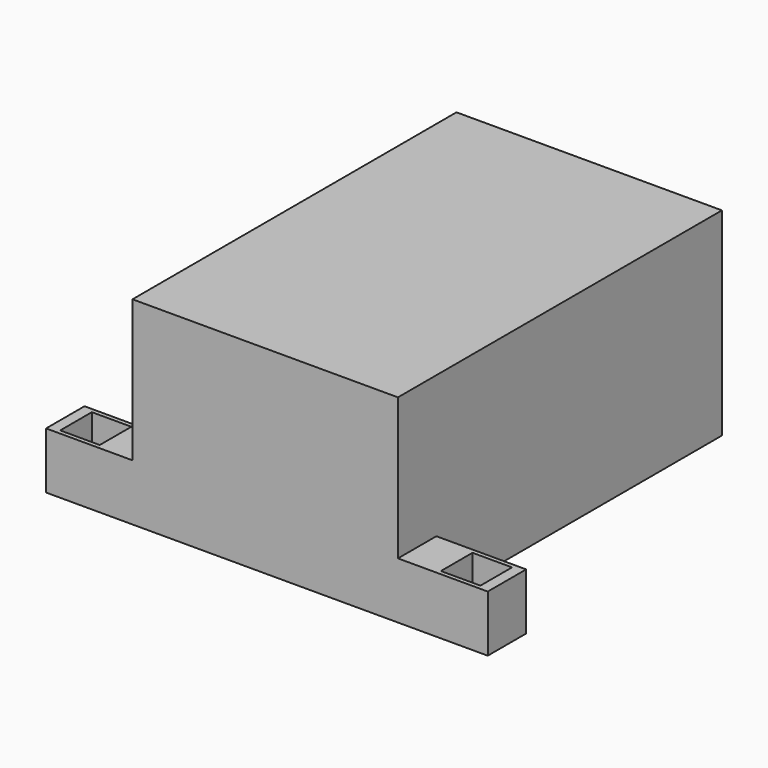
from build123d import *

# Parameters (mm, degrees)
CYLINDER009_R           = 45
CYLINDER009_DEPTH       = 1.2
BOX011_W                = 14
BOX011_H                = 14
BOX011_DEPTH            = 35
BOX008_W                = 40
BOX008_H                = 17
BOX008_DEPTH            = 20
BOX010_W                = 14
BOX010_H                = 14
BOX010_DEPTH            = 52
BOX009_W                = 40
BOX009_H                = 17
BOX009_DEPTH            = 20
PAD002_DEPTH            = 94
BODY002_PLACEMENT_ANGLE = 180
PAD001_DEPTH            = 94
BOX005_W                = 94
BOX005_H                = 1.2
BOX005_DEPTH            = 70.2
BOX002_W                = 1.2
BOX002_H                = 143.4
BOX002_DEPTH            = 70.2
BOX003_W                = 1.2
BOX003_H                = 143.4
BOX003_DEPTH            = 70.2
BOX004_W                = 94
BOX004_H                = 143.4
BOX004_DEPTH            = 1.2
BOX001_W                = 92.8
BOX001_H                = 50.6
BOX001_DEPTH            = 1.2
CYLINDER006_R           = 45
CYLINDER006_DEPTH       = 10
BOX_W                   = 92.8
BOX_H                   = 92.8
BOX_DEPTH               = 1.2
PAD_DEPTH               = 5
BODY_PLACEMENT_ANGLE    = 90
ARRAY_COUNT             = 32
CYLINDER002_R           = 3
CYLINDER002_DEPTH       = 10
CYLINDER_R              = 45
CYLINDER_DEPTH          = 1.2
CYLINDER008_R           = 3
CYLINDER008_DEPTH       = 10
ARRAY003_COUNT          = 12
CYLINDER007_R           = 3
CYLINDER007_DEPTH       = 10
ARRAY002_COUNT          = 8


with BuildPart() as cylinder009:
    # Cylinder009 → Cylinder009 (new body)
    with BuildSketch(Plane.XY):
        Circle(CYLINDER009_R)
    extrude(amount=CYLINDER009_DEPTH)


with BuildPart() as cube011:
    # Box011 → Box011 (new body)
    with BuildSketch(Plane(origin=(-73.2, -95.5, -15), x_dir=(1, 0, 0), z_dir=(0, 0, 1))):
        with Locations((7, 7)):
            Rectangle(BOX011_W, BOX011_H)
    extrude(amount=BOX011_DEPTH)


with BuildPart() as obj1:
    # Box008 → Box008 (new body)
    with BuildSketch(Plane(origin=(-77, -97, -15), x_dir=(1, 0, 0), z_dir=(0, 0, 1))):
        with Locations((20, 8.5)):
            Rectangle(BOX008_W, BOX008_H)
    extrude(amount=BOX008_DEPTH)

    # Cut004: cut Cube011
    add(cube011.part, mode=Mode.SUBTRACT)


with BuildPart() as obj1_1:
    # Cut004 placement: moved
    add(obj1.part.moved(Location((0, 0, 15))))


with BuildPart() as cube010:
    # Box010 → Box010 (new body)
    with BuildSketch(Plane(origin=(61.6, -95.5, -15), x_dir=(1, 0, 0), z_dir=(0, 0, 1))):
        with Locations((7, 7)):
            Rectangle(BOX010_W, BOX010_H)
    extrude(amount=BOX010_DEPTH)


with BuildPart() as obj2:
    # Box009 → Box009 (new body)
    with BuildSketch(Plane(origin=(39.4, -97, -15), x_dir=(1, 0, 0), z_dir=(0, 0, 1))):
        with Locations((20, 8.5)):
            Rectangle(BOX009_W, BOX009_H)
    extrude(amount=BOX009_DEPTH)

    # Cut005: cut Cube010
    add(cube010.part, mode=Mode.SUBTRACT)


with BuildPart() as obj2_1:
    # Cut005 placement: moved
    add(obj2.part.moved(Location((0, 0, 15))))


with BuildPart() as body002:
    # Sketch002 (on Face1 of CopyFusion002002) → Pad002 (new body)
    with BuildSketch(Plane.YZ.offset(47.6)):
        Polygon((0, 0), (0, 10), (-14.28148, 0), align=None)
    extrude(amount=PAD002_DEPTH)


with BuildPart() as body002_1:
    # Body002 placement: moved
    add(body002.part.moved(Location((95.2, -47.6, 70))).rotate(Axis((95.2, -47.6, 70), (0, 1, 0)), BODY002_PLACEMENT_ANGLE))


with BuildPart() as body001:
    # Sketch001 (on Face1 of CopyFusion002001) → Pad001 (new body)
    with BuildSketch(Plane.YZ.offset(47.6)):
        Polygon((0, 0), (0, 10), (-14.28148, 0), align=None)
    extrude(amount=PAD001_DEPTH)


with BuildPart() as body001_1:
    # Body001 placement: moved
    add(body001.part.moved(Location((-94, -47.6, 0))))


with BuildPart() as cube005:
    # Box005 → Box005 (new body)
    with BuildSketch(Plane(origin=(-46.4, -97, 0), x_dir=(1, 0, 0), z_dir=(0, 0, 1))):
        with Locations((47, 0.6)):
            Rectangle(BOX005_W, BOX005_H)
    extrude(amount=BOX005_DEPTH)


with BuildPart() as cube002:
    # Box002 → Box002 (new body)
    with BuildSketch(Plane(origin=(46.4, -97, 0), x_dir=(1, 0, 0), z_dir=(0, 0, 1))):
        with Locations((0.6, 71.7)):
            Rectangle(BOX002_W, BOX002_H)
    extrude(amount=BOX002_DEPTH)


with BuildPart() as cube003:
    # Box003 → Box003 (new body)
    with BuildSketch(Plane(origin=(-46.4, -97, 0), x_dir=(1, 0, 0), z_dir=(0, 0, 1))):
        with Locations((0.6, 71.7)):
            Rectangle(BOX003_W, BOX003_H)
    extrude(amount=BOX003_DEPTH)


with BuildPart() as cube004:
    # Box004 → Box004 (new body)
    with BuildSketch(Plane(origin=(-46.4, -97, 69), x_dir=(1, 0, 0), z_dir=(0, 0, 1))):
        with Locations((47, 71.7)):
            Rectangle(BOX004_W, BOX004_H)
    extrude(amount=BOX004_DEPTH)


with BuildPart() as cube001:
    # Box001 → Box001 (new body)
    with BuildSketch(Plane(origin=(-46.4, -97, 0), x_dir=(1, 0, 0), z_dir=(0, 0, 1))):
        with Locations((46.4, 25.3)):
            Rectangle(BOX001_W, BOX001_H)
    extrude(amount=BOX001_DEPTH)


with BuildPart() as cylinder006:
    # Cylinder006 → Cylinder006 (new body)
    with BuildSketch(Plane.XY):
        Circle(CYLINDER006_R)
    extrude(amount=CYLINDER006_DEPTH)


with BuildPart() as cut002:
    # Box → Box (new body)
    with BuildSketch(Plane(origin=(-46.4, -46.4, 0), x_dir=(1, 0, 0), z_dir=(0, 0, 1))):
        with Locations((46.4, 46.4)):
            Rectangle(BOX_W, BOX_H)
    extrude(amount=BOX_DEPTH)

    # Cut002: cut Cylinder006
    add(cylinder006.part, mode=Mode.SUBTRACT)


with BuildPart() as array:
    # Sketch (on Face1 of CopyCut) → Pad (new body, symmetric)
    with BuildSketch(Plane(origin=(0, 0, 0), x_dir=(1, 0, 0), z_dir=(0, 0, -1))):
        with BuildLine():
            ThreePointArc((-40, 2), (-42, 0), (-40, -2))
            Line((-40, -2), (-30, -2))
            ThreePointArc((-30, -2), (-28, 0), (-30, 2))
            Line((-40, 2), (-30, 2))
        make_face()
    extrude(amount=PAD_DEPTH, both=True)


with BuildPart() as array_1:
    # Body placement: moved
    add(array.part.rotate(Axis((0, 0, 0), (0, 0, 1)), BODY_PLACEMENT_ANGLE))

    # Array: Array ×32 about axis
    array_axis = Axis((0, 0, 0), (0, 0, 1))


with BuildPart() as array_2:
    add(array_1.part)
    for i in range(1, ARRAY_COUNT):
        add(array_1.part.rotate(array_axis, i * 360 / ARRAY_COUNT))


with BuildPart() as cylinder002:
    # Cylinder002 → Cylinder002 (new body)
    with BuildSketch(Plane.XY):
        Circle(CYLINDER002_R)
    extrude(amount=CYLINDER002_DEPTH)


with BuildPart() as cut001:
    # Cylinder → Cylinder (new body)
    with BuildSketch(Plane.XY):
        Circle(CYLINDER_R)
    extrude(amount=CYLINDER_DEPTH)

    # Cut: cut Cylinder002
    add(cylinder002.part, mode=Mode.SUBTRACT)

    # Cut001: cut Array
    add(array_2.part, mode=Mode.SUBTRACT)


with BuildPart() as cut010:
    # Fusion base: copy of Cut001
    add(cut001.part)

    # Fusion: union Cut002
    add(cut002.part)

    # Fusion001: union Cube001
    add(cube001.part)

    # Fusion002: union Cube002, Cube003, Cube004
    add(cube002.part)
    add(cube003.part)
    add(cube004.part)

    # Fusion003: union Cube005
    add(cube005.part)

    # Fusion004: union Body002, Body001
    add(body002_1.part)
    add(body001_1.part)

    # Fusion005002: union obj1, obj2
    add(obj1_1.part)
    add(obj2_1.part)

    # Cut010: cut Cylinder009
    add(cylinder009.part, mode=Mode.SUBTRACT)


with BuildPart() as array003:
    # Cylinder008 → Cylinder008 (new body)
    with BuildSketch(Plane(origin=(-20, 0, 0), x_dir=(1, 0, 0), z_dir=(0, 0, 1))):
        Circle(CYLINDER008_R)
    extrude(amount=CYLINDER008_DEPTH)

    # Array003: Array003 ×12 about axis
    array003_axis = Axis((0, 0, 0), (0, 0, 1))


with BuildPart() as array003_1:
    add(array003.part)
    for i in range(1, ARRAY003_COUNT):
        add(array003.part.rotate(array003_axis, i * 360 / ARRAY003_COUNT))


with BuildPart() as array002:
    # Cylinder007 → Cylinder007 (new body)
    with BuildSketch(Plane(origin=(-10, 0, 0), x_dir=(1, 0, 0), z_dir=(0, 0, 1))):
        Circle(CYLINDER007_R)
    extrude(amount=CYLINDER007_DEPTH)

    # Array002: Array002 ×8 about axis
    array002_axis = Axis((0, 0, 0), (0, 0, 1))


with BuildPart() as array002_1:
    add(array002.part)
    for i in range(1, ARRAY002_COUNT):
        add(array002.part.rotate(array002_axis, i * 360 / ARRAY002_COUNT))


with BuildPart() as obj3:
    # Cut008 base: copy of Cut001
    add(cut001.part)

    # Cut008: cut Array002
    add(array002_1.part, mode=Mode.SUBTRACT)

    # Cut009: cut Array003
    add(array003_1.part, mode=Mode.SUBTRACT)

    # Fusion005002002: union Cut010
    add(cut010.part)


solid = obj3.part
